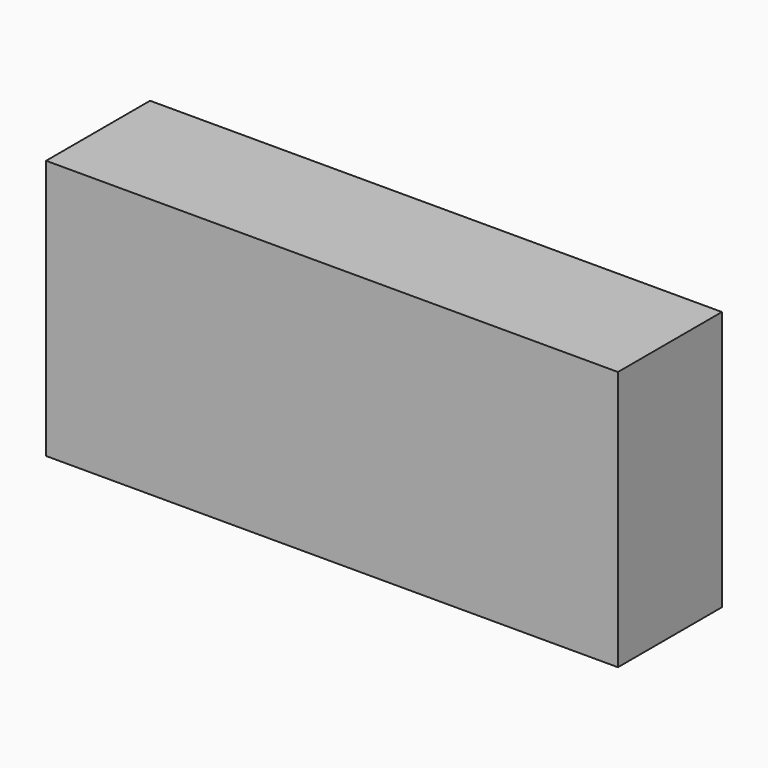
from build123d import *

# Parameters (mm, degrees)
SKETCH_W      = 110
SKETCH_H      = 25
EXTRUDE_DEPTH = 50


with BuildPart() as part:
    # Sketch → Extrude (new body)
    with BuildSketch(Plane.XY):
        Rectangle(SKETCH_W, SKETCH_H)
    extrude(amount=EXTRUDE_DEPTH)


solid = part.part
